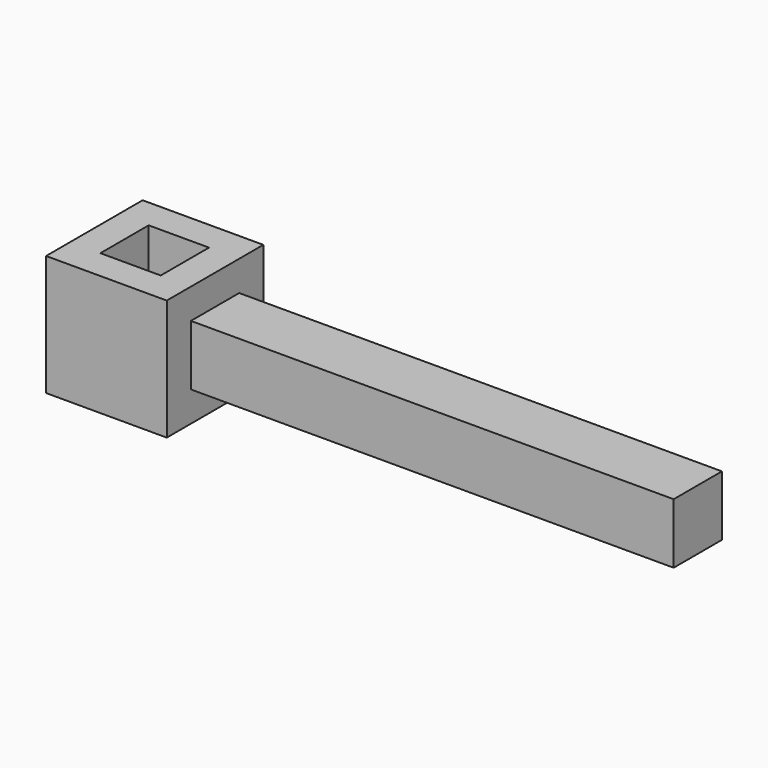
from build123d import *

# Parameters (mm, degrees)
F0_W     = 50.8
F0_H     = 50.8
F0_W_2   = 25.4
F0_H_2   = 25.4
F1_DEPTH = 50.8
F2_W     = 25.4
F2_H     = 25.4
F3_DEPTH = 203.2


with BuildPart() as f1:
    # F0 (on Top) → F1 (new body)
    with BuildSketch(Plane.XY):
        Rectangle(F0_W, F0_H)
        Rectangle(F0_W_2, F0_H_2, mode=Mode.SUBTRACT)
    extrude(amount=F1_DEPTH)

    # F2 (on face) → F3 (join)
    with BuildSketch(Plane.YZ.offset(25.4)):
        with Locations((0, 25.4)):
            Rectangle(F2_W, F2_H)
    extrude(amount=F3_DEPTH)


solid = f1.part
